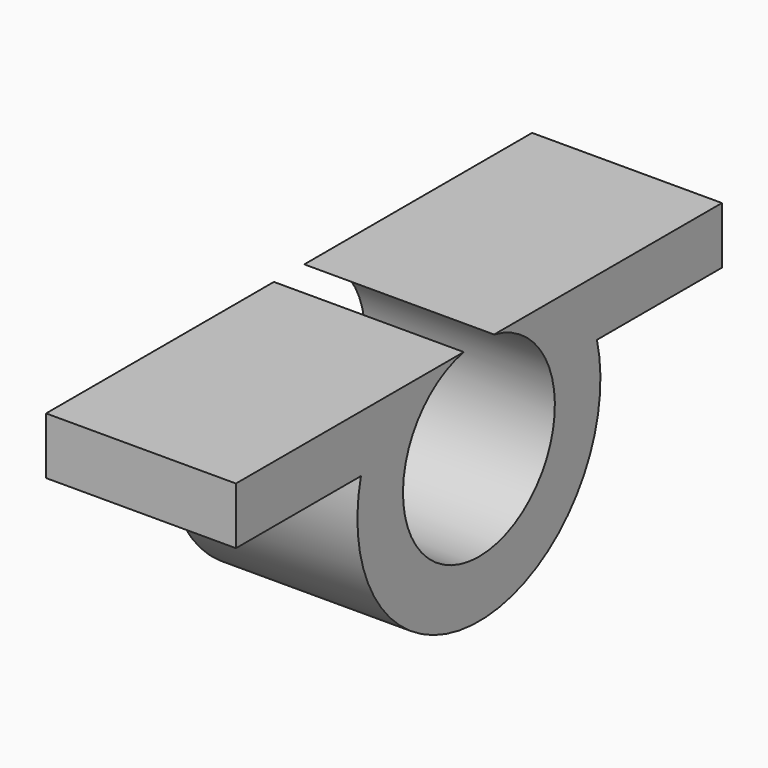
from build123d import *

# Parameters (mm, degrees)
PAD_DEPTH = 10


with BuildPart() as part:
    # Sketch → Pad (new body)
    with BuildSketch(Plane.YZ):
        with BuildLine():
            ThreePointArc((-1, 0), (0, -9.898979), (1, 0))
            Line((1, 0), (16, 0))
            Line((16, 0), (16, -3))
            Line((16, -3), (7.77135, -3))
            ThreePointArc((-7.77135, -3), (0, -12.898979), (7.77135, -3))
            Line((-16, -3), (-7.77135, -3))
            Line((-16, 0), (-16, -3))
            Line((-1, 0), (-16, 0))
        make_face()
    extrude(amount=PAD_DEPTH)


solid = part.part
